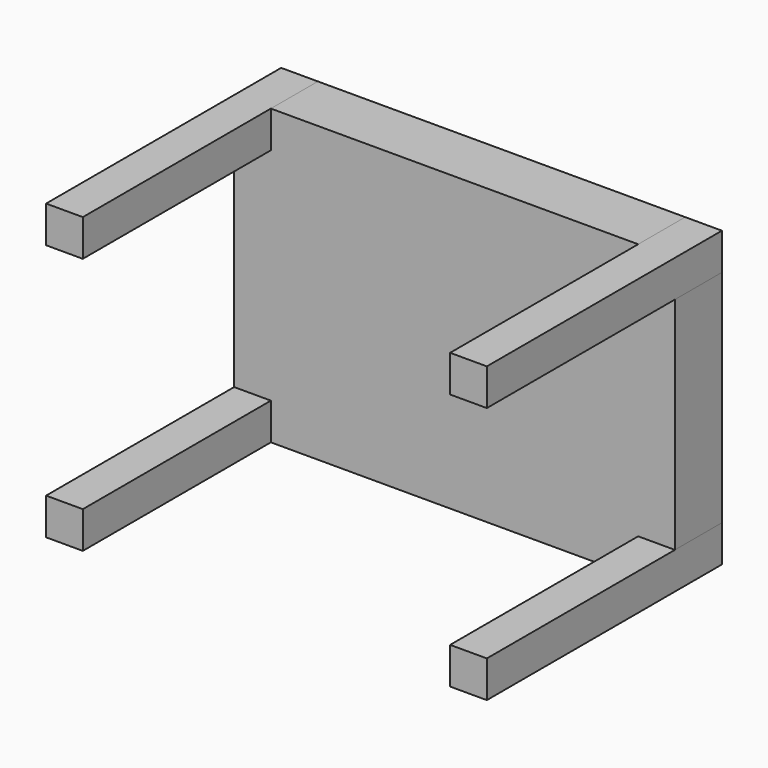
from build123d import *

# Parameters (mm, degrees)
F0_W     = 6.35
F0_H     = 6.35
F1_DEPTH = 50.8
F2_DEPTH = 10.16


with BuildPart() as f1:
    # F0 (on Front) → F1 (new body)
    with BuildSketch(Plane.XZ):
        with Locations((-31.298816, 20.403551)):
            Rectangle(F0_W, F0_H)
        with Locations((38.551184, 20.403551)):
            Rectangle(F0_W, F0_H)
        with Locations((38.551184, -24.046449)):
            Rectangle(F0_W, F0_H)
        with Locations((-31.298816, -24.046449)):
            Rectangle(F0_W, F0_H)
    extrude(amount=F1_DEPTH)


with BuildPart() as f2:
    # F0 (on Front) → F2 (new body)
    with BuildSketch(Plane.XZ):
        Polygon((35.376184, 23.578551), (-28.123816, 23.578551), (-28.123816, 17.228551), (-34.473816, 17.228551), (-34.473816, -20.871449), (-28.123816, -20.871449), (-28.123816, -27.221449), (35.376184, -27.221449), (35.376184, -20.871449), (41.726184, -20.871449), (41.726184, 17.228551), (35.376184, 17.228551), align=None)
    extrude(amount=F2_DEPTH)


solid = Compound([f1.part, f2.part])
